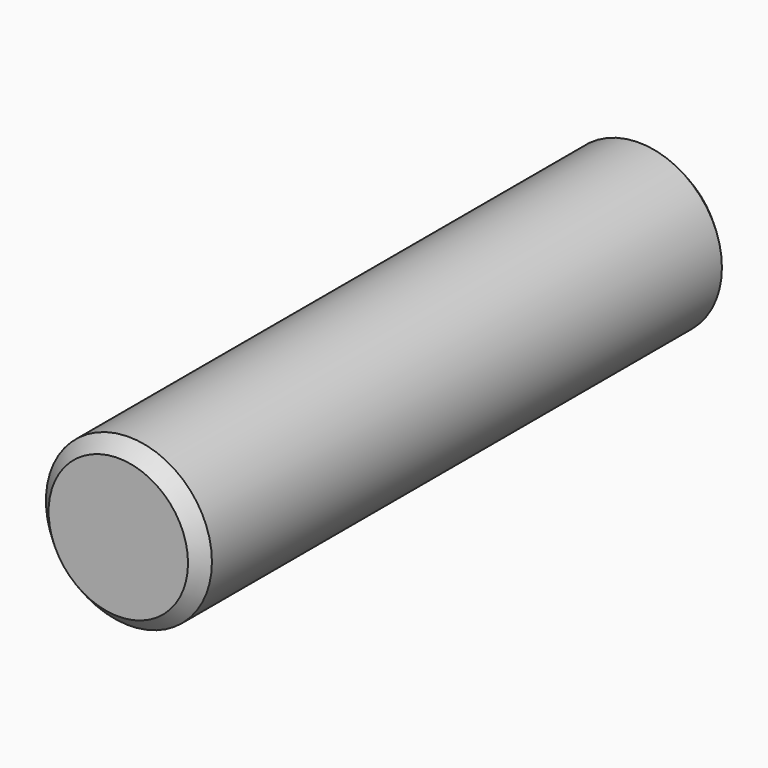
from build123d import *

# Parameters (mm, degrees)
F0_R     = 1.25
F1_DEPTH = 5
F2_SIZE  = 0.2


with BuildPart() as f1:
    # F0 (on Front) → F1 (new body)
    with BuildSketch(Plane.XZ):
        Circle(F0_R)
    extrude(amount=F1_DEPTH)

    # F2
    f2_edges = [f1.edges().sort_by_distance(p)[0] for p in [
        (-1.25, -5, 0),
    ]]
    chamfer(f2_edges, length=F2_SIZE)

    # F3: F1 across plane


with BuildPart() as f1_1:
    add(f1.part)
    add(f1.part.mirror(Plane.XZ))


solid = f1_1.part
